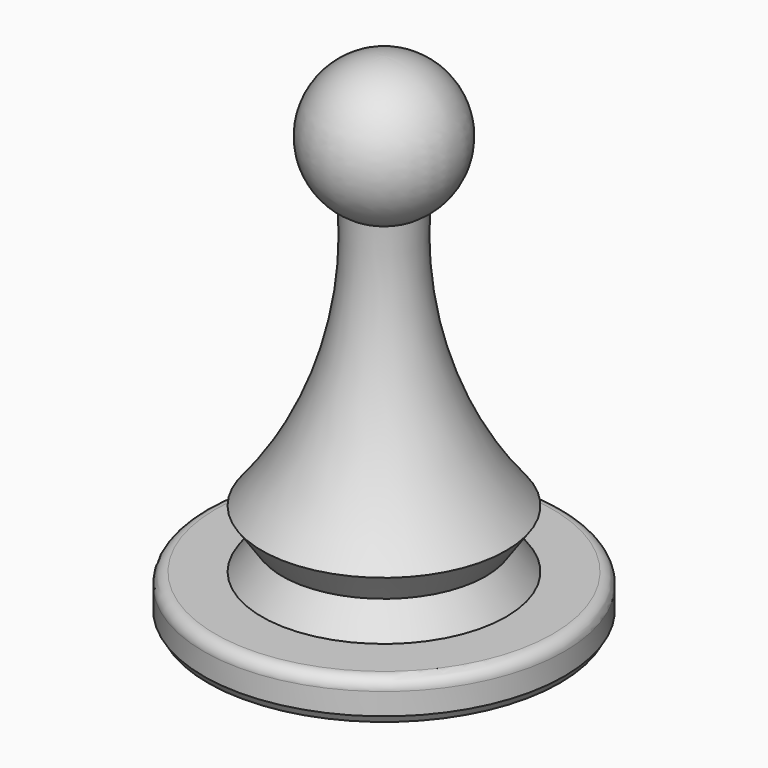
from build123d import *


with BuildPart() as f1:
    # F0 (on Front) → F1 (revolve)
    with BuildSketch(Plane.XZ):
        with BuildLine():
            Line((0, 0), (15.367, 0))
            Line((15.367, 0), (15.748, 0.635))
            Line((15.748, 0.635), (15.748, 2.54))
            ThreePointArc((15.748, 2.54), (15.45042, 3.25842), (14.732, 3.556))
            Line((14.732, 3.556), (10.668, 3.556))
            Line((10.668, 3.556), (8.89, 6.096))
            Line((8.89, 6.096), (10.668, 8.636))
            ThreePointArc((10.668, 8.636), (4.681741, 19.466924), (3.175, 31.75))
            ThreePointArc((3.175, 31.75), (5.931389, 38.671636), (0, 43.18))
            Line((0, 43.18), (0, 0))
        make_face()
    revolve(axis=Axis((0, 0, 21.59), (0, 0, -1)))


solid = f1.part
